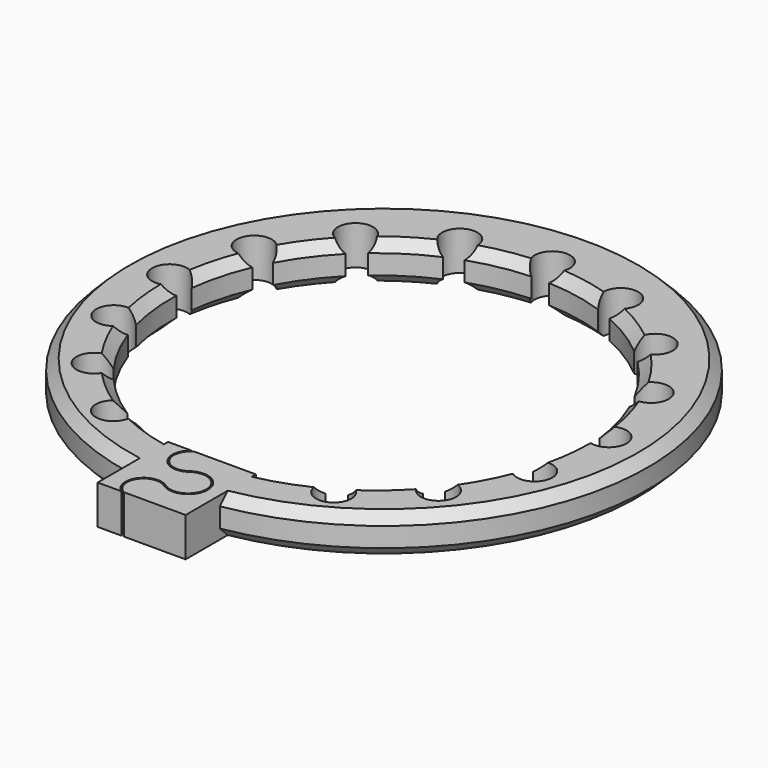
from build123d import *

# Parameters (mm, degrees)
SKETCH_R              = 27
SKETCH_R_2            = 21
PAD_DEPTH             = 4
CHAMFER_SIZE          = 1
CHAMFER001_SIZE       = 1
CHAMFER002_SIZE       = 1
CHAMFER003_SIZE       = 1
POCKET_DEPTH          = 156.945434
POLARPATTERN_COUNT    = 8
POLARPATTERN_ANGLE    = 150
POLARPATTERN001_COUNT = 8
POLARPATTERN001_ANGLE = 150
SKETCH002_W           = 9
SKETCH002_H           = 9
PAD001_DEPTH          = 4
POCKET001_DEPTH       = 4.001


with BuildPart() as part:
    # Sketch → Pad (new body)
    with BuildSketch(Plane.XY):
        with Locations((0, 1)):
            Circle(SKETCH_R)
        Circle(SKETCH_R_2, mode=Mode.SUBTRACT)
    extrude(amount=PAD_DEPTH)

    # Chamfer
    chamfer_edges = [part.edges().sort_by_distance(p)[0] for p in [
        (-27, 1, 4),
    ]]
    chamfer(chamfer_edges, length=CHAMFER_SIZE)

    # Chamfer001
    chamfer001_edges = [part.edges().sort_by_distance(p)[0] for p in [
        (-21, 0, 4),
    ]]
    chamfer(chamfer001_edges, length=CHAMFER001_SIZE)

    # Chamfer002
    chamfer002_edges = [part.edges().sort_by_distance(p)[0] for p in [
        (-21, 0, 0),
    ]]
    chamfer(chamfer002_edges, length=CHAMFER002_SIZE)

    # Chamfer003
    chamfer003_edges = [part.edges().sort_by_distance(p)[0] for p in [
        (-27, 1, 0),
    ]]
    chamfer(chamfer003_edges, length=CHAMFER003_SIZE)

    # Sketch001 → Pocket (cut, through all)
    with BuildSketch(Plane.XY):
        with BuildLine():
            Line((0, 0), (0.9, 20.980705))
            ThreePointArc((0.9, 20.980705), (0, 24.339551), (-0.9, 20.980705))
            Line((-0.9, 20.980705), (0, 0))
        make_face()
    pocket = extrude(amount=POCKET_DEPTH, mode=Mode.SUBTRACT)

    # PolarPattern: Pocket ×8 about axis
    polarpattern_axis = Axis((0, 0, 0), (0, 0, 1))
    for i in range(1, POLARPATTERN_COUNT):
        add(pocket.rotate(polarpattern_axis, i * POLARPATTERN_ANGLE / (POLARPATTERN_COUNT - 1)), mode=Mode.SUBTRACT)

    # PolarPattern001: Pocket ×8 about axis
    polarpattern001_axis = Axis((0, 0, 0), (0, 0, -1))
    for i in range(1, POLARPATTERN001_COUNT):
        add(pocket.rotate(polarpattern001_axis, i * POLARPATTERN001_ANGLE / (POLARPATTERN001_COUNT - 1)), mode=Mode.SUBTRACT)

    # Sketch002 → Pad001 (join)
    with BuildSketch(Plane.XY):
        with Locations((0, -25.5)):
            Rectangle(SKETCH002_W, SKETCH002_H)
    extrude(amount=PAD001_DEPTH)

    # Sketch003 → Pocket001 (cut, through all)
    with BuildSketch(Plane.XY):
        with BuildLine():
            ThreePointArc((-1, -20.65), (-2.760327, -23.06899), (0.08282, -24))
            ThreePointArc((0.08282, -27), (3.015641, -25.5), (0.08282, -24))
            ThreePointArc((0.08282, -27), (-2.760327, -27.93101), (-1, -30.35))
            Line((-1, -30.2), (-1, -30.35))
            ThreePointArc((-0.004976, -27.121622), (-2.617597, -27.977144), (-1, -30.2))
            ThreePointArc((-0.004976, -27.121622), (3.165641, -25.5), (-0.004976, -23.878378))
            ThreePointArc((-1, -20.8), (-2.617597, -23.022856), (-0.004976, -23.878378))
            Line((-1, -20.65), (-1, -20.8))
        make_face()
    extrude(amount=POCKET001_DEPTH, mode=Mode.SUBTRACT)


solid = part.part
